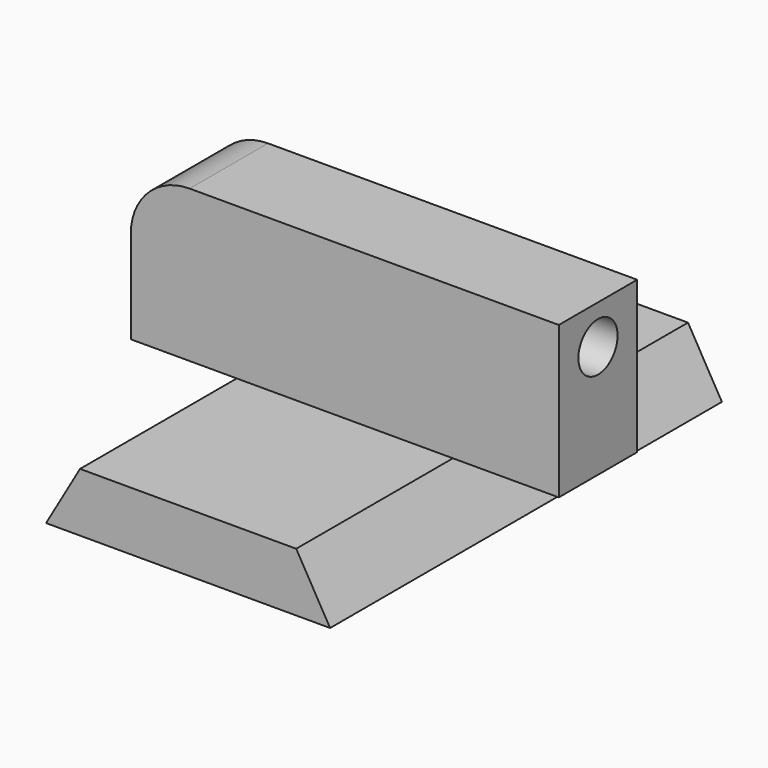
from build123d import *

# Parameters (mm, degrees)
F1_DEPTH = 12.7
F2_W     = 2.54
F2_H     = 3.937
F3_DEPTH = 25.4
F4_R     = 1.524
F5_R     = 0.635
F6_DEPTH = 25.4


with BuildPart() as f1:
    # F0 (on Front) → F1 (new body)
    with BuildSketch(Plane.XZ):
        Polygon((-2.863529, 1.524), (-3.743411, 0), (3.622589, 0), (2.742708, 1.524), (5.488804, 1.524), (5.488804, 5.461), (-5.609625, 5.461), (-5.609625, 1.524), align=None)
    extrude(amount=F1_DEPTH)

    # F2 (on face) → F3 (intersect)
    with BuildSketch(Plane.YZ.offset(5.488804)):
        with Locations((-6.35, 3.4925)):
            Rectangle(F2_W, F2_H)
        Polygon((-7.62, 1.524), (-12.7, 1.524), (-12.7, 0), (0, 0), (0, 1.524), (-5.08, 1.524), align=None)
    extrude(amount=-F3_DEPTH, mode=Mode.INTERSECT)

    # F4
    f4_edges = [f1.edges().sort_by_distance(p)[0] for p in [
        (-5.609625, -6.35, 5.461),
    ]]
    fillet(f4_edges, radius=F4_R)

    # F5 (on face) → F6 (cut)
    with BuildSketch(Plane.YZ.offset(5.488804)):
        with Locations((-6.35, 4.445)):
            Circle(F5_R)
    extrude(amount=-F6_DEPTH, mode=Mode.SUBTRACT)


solid = f1.part
